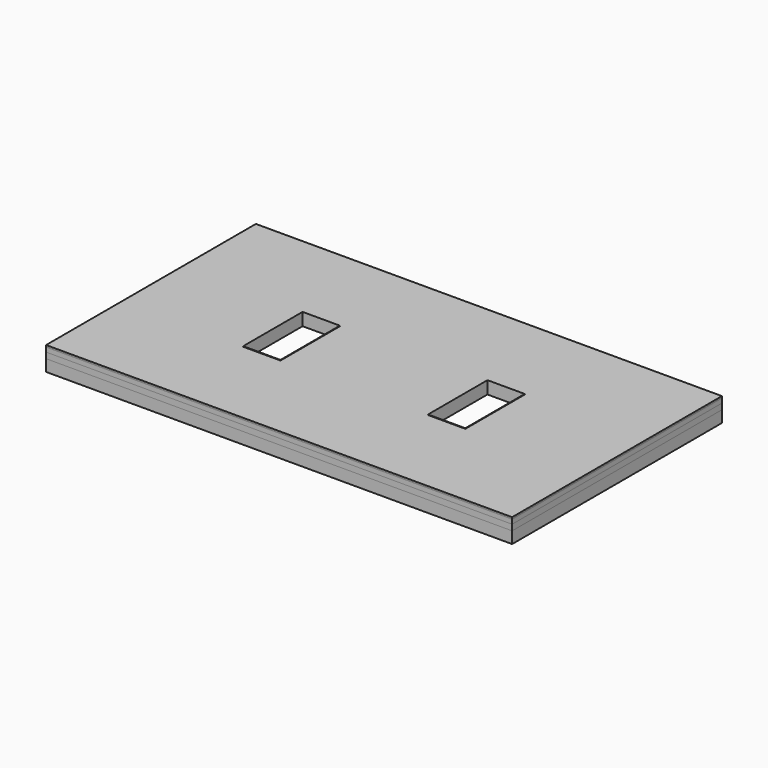
from build123d import *

# Parameters (mm, degrees)
F0_W      = 8004
F0_H      = 4504
F1_DEPTH  = 200
F2_T      = -2
F3_W      = 644
F3_H      = 1279
F3_W_2    = 640
F3_H_2    = 1275
F4_DEPTH  = 215
F5_DEPTH  = 2
F6_W      = 8004
F6_H      = 4504
F6_W_2    = 644
F6_H_2    = 1279
F7_DEPTH  = 100
F8_DEPTH  = 75
F9_DEPTH  = 7
F10_DEPTH = 25


with BuildPart() as f1:
    # F0 (on Top) → F1 (new body)
    with BuildSketch(Plane.XY):
        with Locations((3888.3689228892, 2233.4590513706)):
            Rectangle(F0_W, F0_H)
    extrude(amount=F1_DEPTH)

    # F2
    f2_openings = [f1.faces().sort_by_distance(p)[0] for p in [
        (3888.368923, 2233.459051, 0),
    ]]
    offset(amount=F2_T, openings=f2_openings)

    # F3 (on face) → F4 (join)
    with BuildSketch(Plane.XY.offset(200)):
        with Locations((5475.8689228892, 2232.4590513706)):
            Rectangle(F3_W, F3_H)
        with Locations((5475.8689228892, 2232.4590513706)):
            Rectangle(F3_W_2, F3_H_2, mode=Mode.SUBTRACT)
        with Locations((2300.8689228892, 2232.4590513706)):
            Rectangle(F3_W, F3_H)
        with Locations((2300.8689228892, 2232.4590513706)):
            Rectangle(F3_W_2, F3_H_2, mode=Mode.SUBTRACT)
    extrude(amount=F4_DEPTH)

    # F5 (cut): faces of the model
    f5_faces = [f1.faces().sort_by_distance(p)[0] for p in [
        (2300.8689228892, 2232.4590513706, 200),
        (5475.8689228892, 2232.4590513706, 200),
    ]]
    extrude(f5_faces, amount=-F5_DEPTH, mode=Mode.SUBTRACT)


with BuildPart() as f7:
    # F6 (on face) → F7 (new body)
    with BuildSketch(Plane.XY.offset(200)):
        with Locations((3888.3689228892, 2233.4590513706)):
            Rectangle(F6_W, F6_H)
        with Locations((2300.8689228892, 2232.4590513706)):
            Rectangle(F6_W_2, F6_H_2, mode=Mode.SUBTRACT)
        with Locations((5475.8689228892, 2232.4590513706)):
            Rectangle(F6_W_2, F6_H_2, mode=Mode.SUBTRACT)
    extrude(amount=F7_DEPTH)


with BuildPart() as f8:
    # F8 (new): a face of the model
    f8_faces = [f7.part.faces().sort_by_distance(p)[0] for p in [
        (3888.3689228892, 2233.5069358019, 300),
    ]]
    extrude(f8_faces, amount=F8_DEPTH)


with BuildPart() as f9:
    # F9 (new): a face of the model
    f9_faces = [f8.part.faces().sort_by_distance(p)[0] for p in [
        (3888.3689228892, 2233.5069358019, 375),
    ]]
    extrude(f9_faces, amount=F9_DEPTH)


with BuildPart() as f10:
    # F10 (new): a face of the model
    f10_faces = [f9.part.faces().sort_by_distance(p)[0] for p in [
        (3888.3689228892, 2233.5069358019, 382),
    ]]
    extrude(f10_faces, amount=F10_DEPTH)


solid = Compound([f1.part, f7.part, f8.part, f9.part, f10.part])
